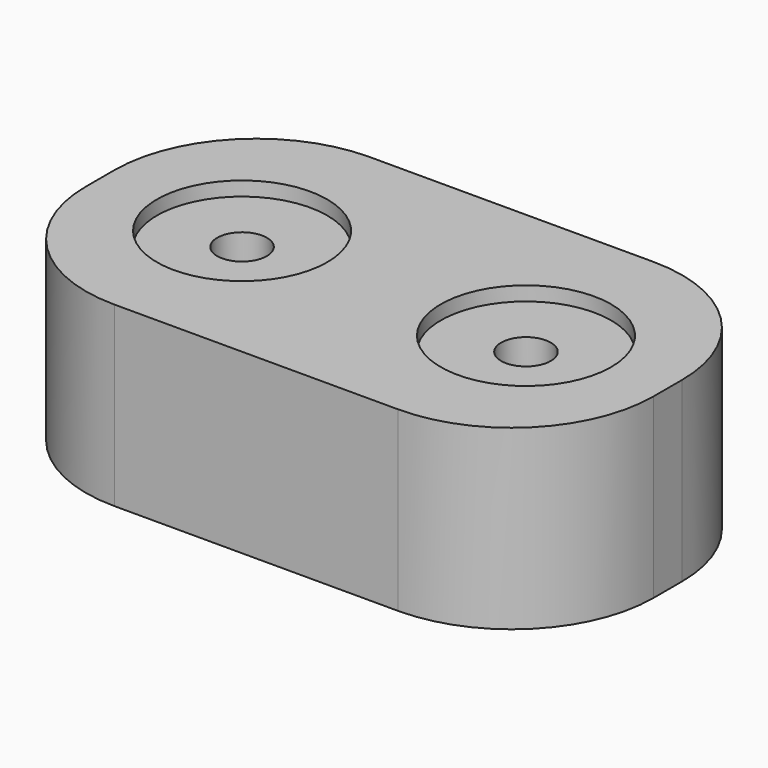
from build123d import *

# Parameters (mm, degrees)
F0_W     = 80
F0_H     = 45
F1_DEPTH = 25
F2_R     = 12
F3_DEPTH = 2
F4_R     = 3.5
F5_DEPTH = 6
F6_R     = 20


with BuildPart() as f1:
    # F0 (on Top) → F1 (new body)
    with BuildSketch(Plane.XY):
        Rectangle(F0_W, F0_H)
    extrude(amount=F1_DEPTH)

    # F2 (on face) → F3 (cut)
    with BuildSketch(Plane.XY.offset(25)):
        with Locations((-20, 0)):
            Circle(F2_R)
        with Locations((20, 0)):
            Circle(F2_R)
    extrude(amount=-F3_DEPTH, mode=Mode.SUBTRACT)

    # F4 (on face) → F5 (cut)
    with BuildSketch(Plane.XY.offset(23)):
        with Locations((-20, 0)):
            Circle(F4_R)
        with Locations((20, 0)):
            Circle(F4_R)
    extrude(amount=-F5_DEPTH, mode=Mode.SUBTRACT)

    # F6
    f6_edges = [f1.edges().sort_by_distance(p)[0] for p in [
        (-40, -22.5, 12.5),
        (-40, 22.5, 12.5),
        (40, -22.5, 12.5),
        (40, 22.5, 12.5),
    ]]
    fillet(f6_edges, radius=F6_R)


solid = f1.part
